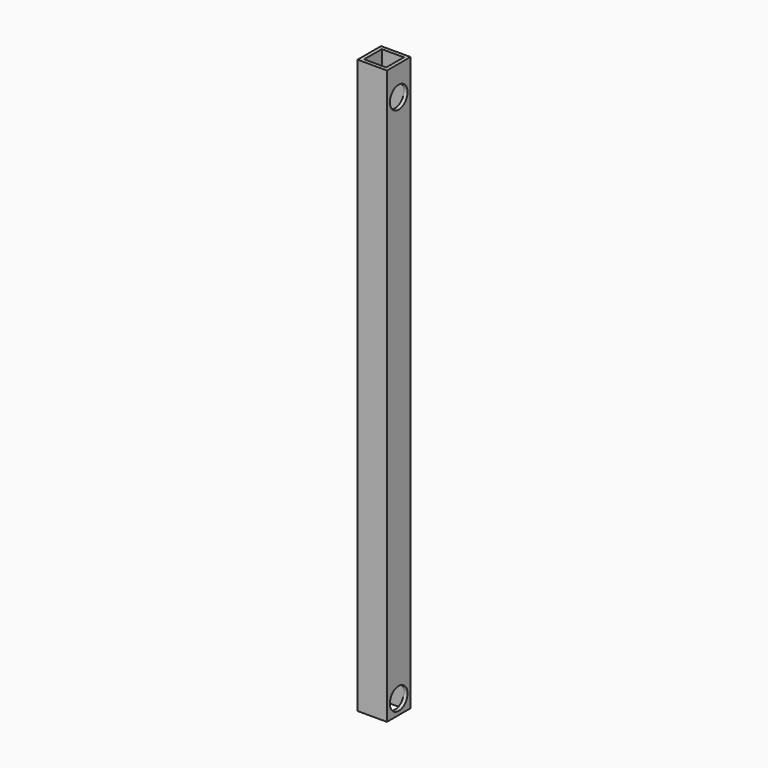
from build123d import *

# Parameters (mm, degrees)
F0_W     = 25.4
F0_H     = 25.4
F0_W_2   = 19.05
F0_H_2   = 19.05
F1_DEPTH = 495.3
F2_R     = 9.525
F3_DEPTH = 25.4
F4_R     = 9.525
F5_DEPTH = 25.4


with BuildPart() as f1:
    # F0 (on Top) → F1 (new body)
    with BuildSketch(Plane.XY):
        Rectangle(F0_W, F0_H)
        Rectangle(F0_W_2, F0_H_2, mode=Mode.SUBTRACT)
    extrude(amount=F1_DEPTH)

    # F2 (on face) → F3 (cut)
    with BuildSketch(Plane.YZ.offset(12.7)):
        with Locations((0, 469.9)):
            Circle(F2_R)
    extrude(amount=-F3_DEPTH, mode=Mode.SUBTRACT)

    # F4 (on face) → F5 (cut)
    with BuildSketch(Plane.YZ.offset(12.7)):
        with Locations((0, 12.7)):
            Circle(F4_R)
    extrude(amount=-F5_DEPTH, mode=Mode.SUBTRACT)


solid = f1.part
